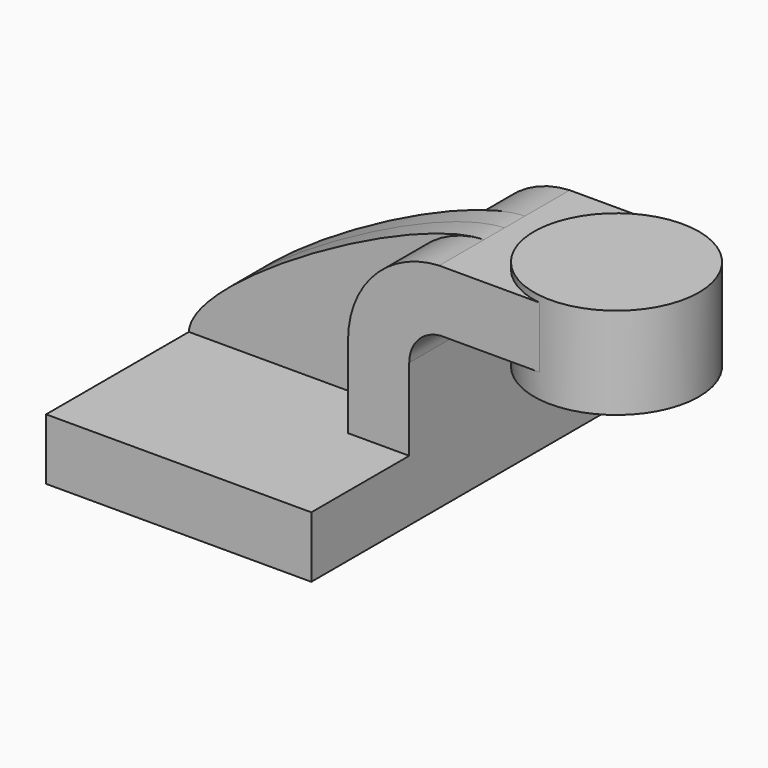
from build123d import *

# Parameters (mm, degrees)
F1_DEPTH = 63.5
F0_W     = 25.1334723711
F0_H     = 19.05
F2_DEPTH = 25.4
F3_DEPTH = 7.9375


with BuildPart() as f1:
    # F0 (on Front) → F1 (new body, symmetric)
    with BuildSketch(Plane.XZ):
        Polygon((-41.275, 9.525), (-41.275, -9.525), (41.275, -9.525), (41.275, 9.525), (22.225, 9.525), align=None)
    extrude(amount=F1_DEPTH, both=True)

    # F0 (on Front) → F2 (join, symmetric)
    with BuildSketch(Plane.XZ):
        with BuildLine():
            Line((22.225, 9.525), (41.275, 9.525))
            Line((41.275, 9.525), (41.275, 35.0430520255))
            ThreePointArc((41.275, 35.0430520255), (44.1109864464, 42.2590514087), (51.101194276, 45.6132220545))
            Line((51.101194276, 45.6132220545), (60.325, 45.6132220545))
            Line((60.325, 45.6132220545), (60.325, 64.6632220545))
            Line((60.325, 64.6632220545), (50.5813328098, 64.6632220545))
            ThreePointArc((50.5813328098, 64.6632220545), (30.4568754428, 55.5457108956), (22.225, 35.0430520255))
            Line((22.225, 35.0430520255), (22.225, 9.525))
        make_face()
        with Locations((72.8917361856, 55.1382220545)):
            Rectangle(F0_W, F0_H)
    extrude(amount=F2_DEPTH, both=True)

    # F0 (on Front) → F3 (join, symmetric)
    with BuildSketch(Plane.XZ):
        with BuildLine():
            add(Edge.make_bspline(
                [(-41.275, 9.525), (-40.6684018672, 25.3735426813), (27.1178521216, 64.2672926188), (50.5813328098, 64.6632220545)],
                knots=[0, 0, 0, 0, 107.134538822, 107.134538822, 107.134538822, 107.134538822], degree=3))
            Line((-41.275, 9.525), (22.225, 9.525))
            Line((22.225, 9.525), (22.225, 35.0430520255))
            ThreePointArc((22.225, 35.0430520255), (30.4568754428, 55.5457108956), (50.5813328098, 64.6632220545))
        make_face()
    extrude(amount=F3_DEPTH, both=True)

    # F0 (on Front) → F4 (revolve)
    with BuildSketch(Plane.XZ):
        Polygon((85.4584723711, 66.675), (85.4584723711, 64.6632220545), (85.4584723711, 45.6132220545), (85.4584723711, 38.1), (111.125, 38.1), (111.125, 66.675), align=None)
    revolve(axis=Axis((85.4584723711, 0, 52.3875), (0, 0, 1)))


solid = f1.part
